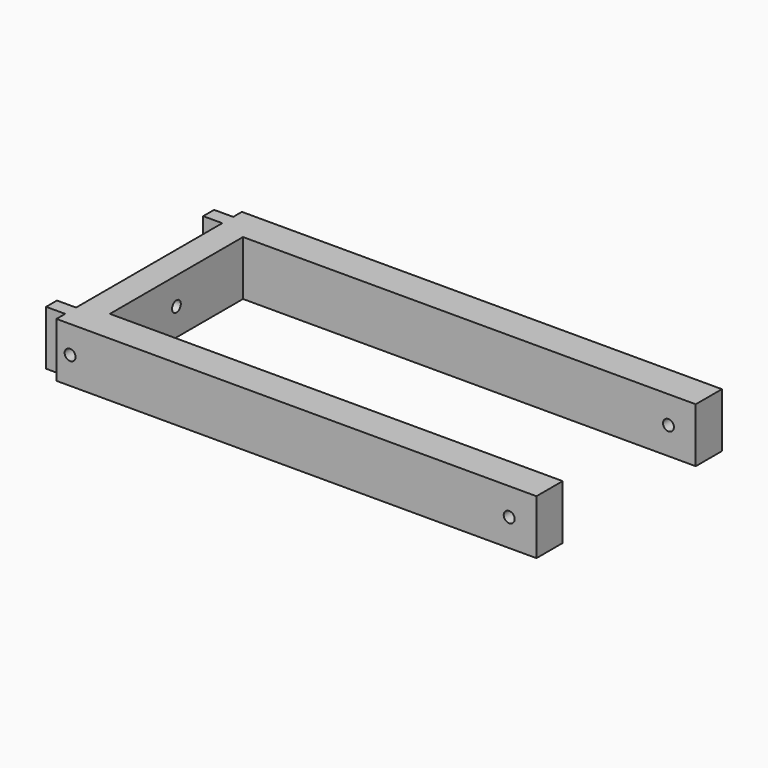
from build123d import *

# Parameters (mm, degrees)
PAD_DEPTH       = 20
SKETCH004_R     = 2
POCKET002_DEPTH = 176.001
SKETCH005_R     = 2
POCKET003_DEPTH = 85.001


with BuildPart() as part:
    # Sketch → Pad (new body)
    with BuildSketch(Plane.XY):
        Polygon((-10, -42.5), (166, -42.5), (166, -30.5), (0, -30.5), (0, 30.5), (166, 30.5), (166, 42.5), (-10, 42.5), (-10, 38.5), (-17, 38.5), (-17, 33.5), (-10, 33.5), (-10, -33.5), (-17, -33.5), (-17, -38.5), (-10, -38.5), align=None)
    extrude(amount=PAD_DEPTH)

    # Sketch004 → Pocket002 (cut, through all)
    with BuildSketch(Plane(origin=(-10, 0, 0), x_dir=(0, -1, 0), z_dir=(-1, 0, 0))):
        with Locations((0, 10)):
            Circle(SKETCH004_R)
    extrude(amount=-POCKET002_DEPTH, mode=Mode.SUBTRACT)

    # Sketch005 → Pocket003 (cut, through all)
    with BuildSketch(Plane.XZ.offset(42.5)):
        with Locations((-5, 10)):
            Circle(SKETCH005_R)
        with Locations((156, 10)):
            Circle(SKETCH005_R)
    extrude(amount=-POCKET003_DEPTH, mode=Mode.SUBTRACT)


solid = part.part
